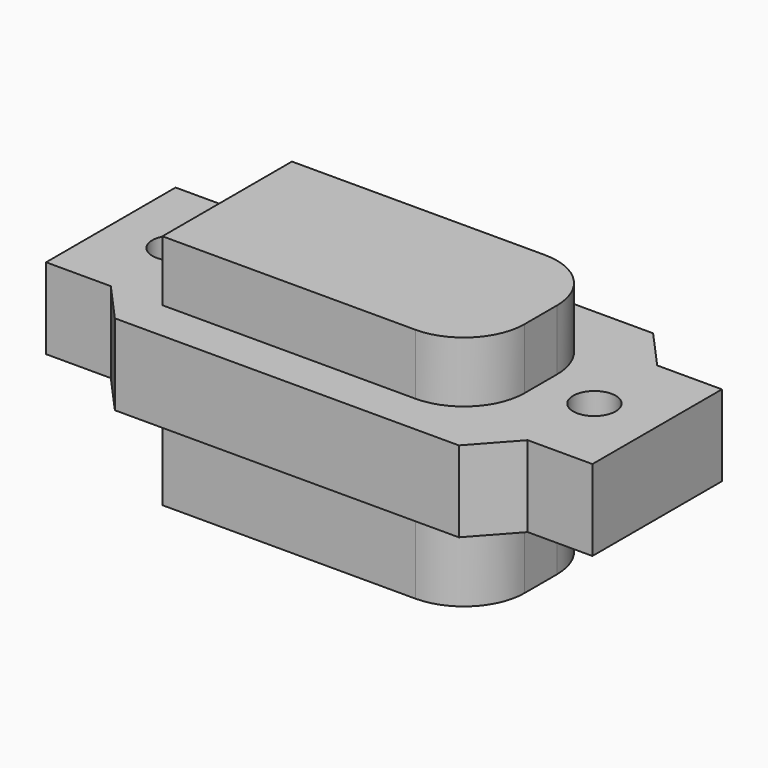
from build123d import *

# Parameters (mm, degrees)
PAD_DEPTH      = 3
PAD_DEPTH_BACK = 8.7
SKETCH001_R    = 1.05
PAD001_DEPTH   = 4


with BuildPart() as part:
    # Sketch → Pad (new body, two sides)
    with BuildSketch(Plane.XY) as pad_sk:
        with BuildLine():
            Line((-7.75, -4), (-7.75, 4))
            Line((-7.75, 4), (4.75, 4))
            ThreePointArc((7.75, 1), (6.87132, 3.12132), (4.75, 4))
            Line((7.75, 1), (7.75, -1))
            ThreePointArc((4.75, -4), (6.87132, -3.12132), (7.75, -1))
            Line((4.75, -4), (-7.75, -4))
        make_face()
    extrude(amount=PAD_DEPTH)
    extrude(pad_sk.sketch, amount=-PAD_DEPTH_BACK)

    # Sketch001 → Pad001 (join)
    with BuildSketch(Plane.XY):
        Polygon((-13.5, 4), (-13.5, -4), (-10.3, -4), (-8.5, -6), (8.5, -6), (10.3, -4), (13.5, -4), (13.5, 4), (10.3, 4), (8.5, 6), (-8.5, 6), (-10.3, 4), align=None)
        with Locations((-10.4, 0)):
            Circle(SKETCH001_R, mode=Mode.SUBTRACT)
        with Locations((10.4, 0)):
            Circle(SKETCH001_R, mode=Mode.SUBTRACT)
    extrude(amount=-PAD001_DEPTH)


solid = part.part
